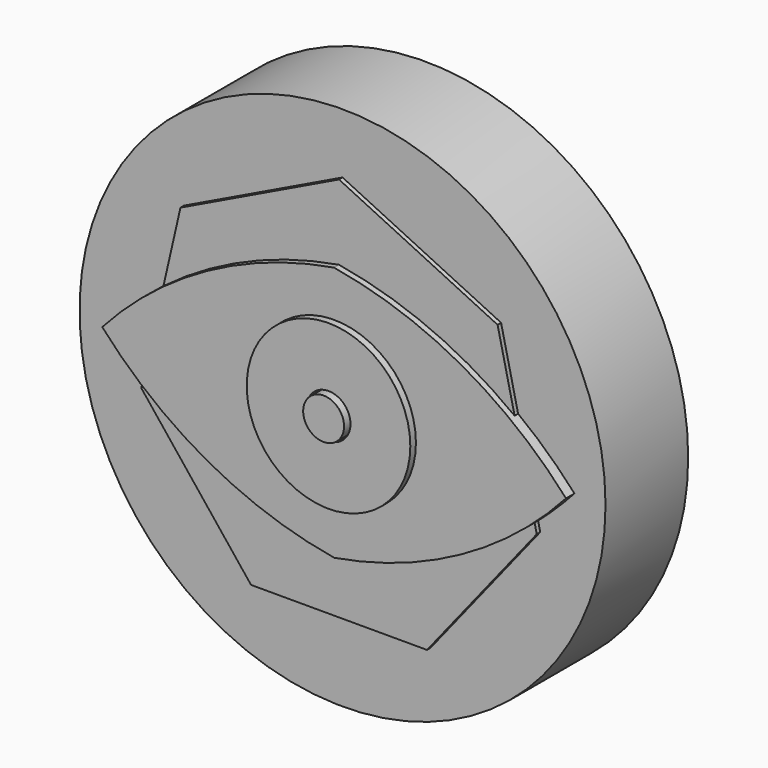
from build123d import *

# Parameters (mm, degrees)
F0_R     = 76.270958
F1_DEPTH = 29.972
F3_DEPTH = 33.02
F5_DEPTH = 31.242
F6_R     = 23.721121
F6_R_2   = 6.37486
F7_DEPTH = 35.052
F8_R     = 5.929378
F9_DEPTH = 36.83


with BuildPart() as f1:
    # F0 (on Front) → F1 (new body)
    with BuildSketch(Plane.XZ):
        Circle(F0_R)
    extrude(amount=F1_DEPTH)

    # F2 (on Front) → F3 (join)
    with BuildSketch(Plane.XZ):
        with BuildLine():
            ThreePointArc((67.254432, 0), (36.779267, 24.243834), (0, 37.041672))
            ThreePointArc((0, 37.041672), (-36.779267, 24.243834), (-67.254432, 0))
            ThreePointArc((-67.254432, 0), (-36.779267, -24.243834), (0, -37.041672))
            ThreePointArc((0, -37.041672), (36.779267, -24.243834), (67.254432, 0))
        make_face()
    extrude(amount=F3_DEPTH)

    # F4 (on Front) → F5 (join)
    with BuildSketch(Plane.XZ):
        Polygon((-25.51971, -52.992225), (25.51971, -52.992225), (57.342269, -13.087999), (45.984929, 36.671757), (0, 58.816932), (-45.984929, 36.671757), (-57.342269, -13.087999), align=None)
    extrude(amount=F5_DEPTH)

    # F6 (on Front) → F7 (join)
    with BuildSketch(Plane.XZ):
        Circle(F6_R)
        Circle(F6_R_2, mode=Mode.SUBTRACT)
    extrude(amount=F7_DEPTH)

    # F8 (on Front) → F9 (join)
    with BuildSketch(Plane.XZ):
        Circle(F8_R)
    extrude(amount=F9_DEPTH)


solid = f1.part
